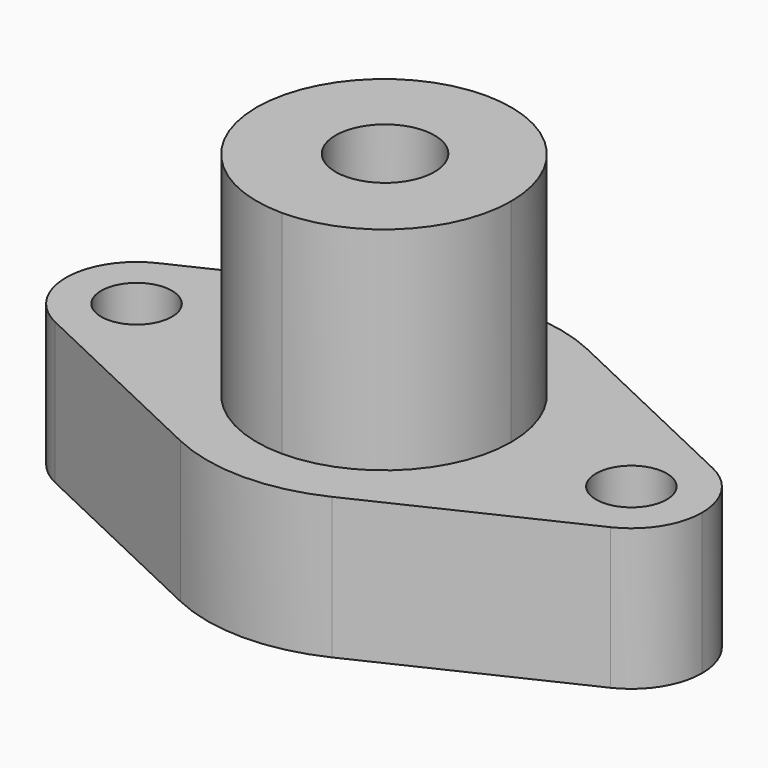
from build123d import *

# Parameters (mm, degrees)
F1_DEPTH = 20
F3_D     = 10
F4_DEPTH = 30
F6_D     = 14
F6_DEPTH = 25
F6_TIP   = 4.2060243332


with BuildPart() as f1:
    # F0 (on Top) → F1 (new body)
    with BuildSketch(Plane.XY):
        with BuildLine():
            ThreePointArc((-25, 0), (-21.1288563682, 13.3630620956), (-10.7142857143, 22.5876975726))
            Line((-10.7142857143, 22.5876975726), (-39.2857142857, 9.0350790291))
            ThreePointArc((-39.2857142857, 9.0350790291), (-29.6547751618, 8.4515425473), (-25, 0))
        make_face()
        with BuildLine():
            Line((0, 0), (18, 0))
            ThreePointArc((18, 0), (0, 18), (-18, 0))
            Line((-18, 0), (0, 0))
        make_face()
        with BuildLine():
            Line((18, 0), (25, 0))
            ThreePointArc((25, 0), (21.1288563682, 13.3630620956), (10.7142857143, 22.5876975726))
            ThreePointArc((10.7142857143, 22.5876975726), (0, 25), (-10.7142857143, 22.5876975726))
            ThreePointArc((-10.7142857143, 22.5876975726), (-21.1288563682, 13.3630620956), (-25, 0))
            Line((-25, 0), (-18, 0))
            ThreePointArc((-18, 0), (0, 18), (18, 0))
        make_face()
        with BuildLine():
            ThreePointArc((-39.2857142857, -9.0350790291), (-29.6547751618, -8.4515425473), (-25, 0))
            ThreePointArc((-25, 0), (-29.6547751618, 8.4515425473), (-39.2857142857, 9.0350790291))
            ThreePointArc((-39.2857142857, 9.0350790291), (-45, 0), (-39.2857142857, -9.0350790291))
        make_face()
        with BuildLine():
            Line((-39.2857142857, -9.0350790291), (-10.7142857143, -22.5876975726))
            ThreePointArc((-10.7142857143, -22.5876975726), (-21.1288563682, -13.3630620956), (-25, 0))
            ThreePointArc((-25, 0), (-29.6547751618, -8.4515425473), (-39.2857142857, -9.0350790291))
        make_face()
        with BuildLine():
            ThreePointArc((39.2857142857, -9.0350790291), (29.6547751618, -8.4515425473), (25, 0))
            ThreePointArc((25, 0), (21.1288563682, -13.3630620956), (10.7142857143, -22.5876975726))
            Line((10.7142857143, -22.5876975726), (39.2857142857, -9.0350790291))
        make_face()
        with BuildLine():
            ThreePointArc((-18, 0), (0, -18), (18, 0))
            Line((18, 0), (0, 0))
            Line((0, 0), (-18, 0))
        make_face()
        with BuildLine():
            ThreePointArc((10.7142857143, -22.5876975726), (21.1288563682, -13.3630620956), (25, 0))
            Line((25, 0), (18, 0))
            ThreePointArc((18, 0), (0, -18), (-18, 0))
            Line((-18, 0), (-25, 0))
            ThreePointArc((-25, 0), (-21.1288563682, -13.3630620956), (-10.7142857143, -22.5876975726))
            ThreePointArc((-10.7142857143, -22.5876975726), (0, -25), (10.7142857143, -22.5876975726))
        make_face()
        with BuildLine():
            ThreePointArc((39.2857142857, 9.0350790291), (29.6547751618, 8.4515425473), (25, 0))
            ThreePointArc((25, 0), (29.6547751618, -8.4515425473), (39.2857142857, -9.0350790291))
            ThreePointArc((39.2857142857, -9.0350790291), (43.4515425473, -5.3452248382), (45, 0))
            ThreePointArc((45, 0), (43.4515425473, 5.3452248382), (39.2857142857, 9.0350790291))
        make_face()
        with BuildLine():
            ThreePointArc((10.7142857143, 22.5876975726), (21.1288563682, 13.3630620956), (25, 0))
            ThreePointArc((25, 0), (29.6547751618, 8.4515425473), (39.2857142857, 9.0350790291))
            Line((39.2857142857, 9.0350790291), (10.7142857143, 22.5876975726))
        make_face()
        with BuildLine():
            Line((18, 0), (25, 0))
            ThreePointArc((25, 0), (21.1288563682, 13.3630620956), (10.7142857143, 22.5876975726))
            ThreePointArc((10.7142857143, 22.5876975726), (0, 25), (-10.7142857143, 22.5876975726))
            ThreePointArc((-10.7142857143, 22.5876975726), (-21.1288563682, 13.3630620956), (-25, 0))
            Line((-25, 0), (-18, 0))
            ThreePointArc((-18, 0), (0, 18), (18, 0))
        make_face()
        with BuildLine():
            ThreePointArc((10.7142857143, -22.5876975726), (21.1288563682, -13.3630620956), (25, 0))
            Line((25, 0), (18, 0))
            ThreePointArc((18, 0), (0, -18), (-18, 0))
            Line((-18, 0), (-25, 0))
            ThreePointArc((-25, 0), (-21.1288563682, -13.3630620956), (-10.7142857143, -22.5876975726))
            ThreePointArc((-10.7142857143, -22.5876975726), (0, -25), (10.7142857143, -22.5876975726))
        make_face()
    extrude(amount=F1_DEPTH)

    # F3 (through all)
    with Locations(Plane(origin=(0, 0, 0), x_dir=(1, 0, 0), z_dir=(0, 0, -1))):
        with Locations((-35, 0), (35, 0)):
            Hole(F3_D / 2)

    # F2 (on face) → F4 (join)
    with BuildSketch(Plane.XY.offset(20)):
        with BuildLine():
            Line((0, -18), (0, 0))
            Line((0, 0), (-18, 0))
            ThreePointArc((-18, 0), (-12.7279220614, -12.7279220614), (0, -18))
        make_face()
        with BuildLine():
            Line((-18, 0), (0, 0))
            Line((0, 0), (0, 18))
            ThreePointArc((0, 18), (-12.7279220614, 12.7279220614), (-18, 0))
        make_face()
        with BuildLine():
            Line((0, 0), (18, 0))
            ThreePointArc((18, 0), (12.7279220614, 12.7279220614), (0, 18))
            Line((0, 18), (0, 0))
        make_face()
        with BuildLine():
            ThreePointArc((0, -18), (12.7279220614, -12.7279220614), (18, 0))
            Line((18, 0), (0, 0))
            Line((0, 0), (0, -18))
        make_face()
    extrude(amount=F4_DEPTH)

    # F6
    with Locations(Plane.XY.offset(50)):
        with Locations((0, 0.1870505988)):
            Hole(F6_D / 2, depth=F6_DEPTH)
            with Locations((0, 0, -(F6_DEPTH + F6_TIP / 2))):  # 118° drill point
                Cone(0, F6_D / 2, F6_TIP, mode=Mode.SUBTRACT)


solid = f1.part
